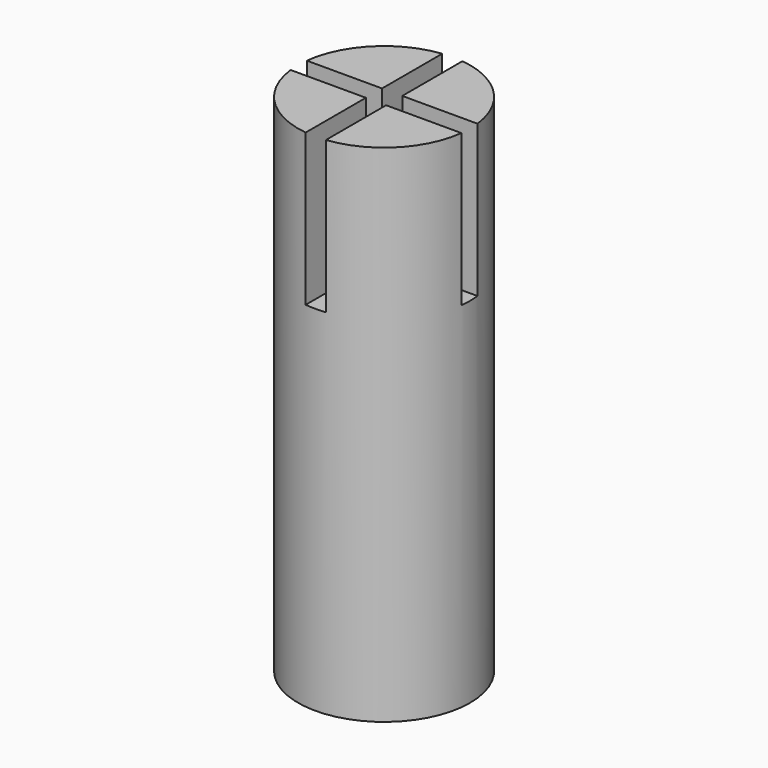
from build123d import *

# Parameters (mm, degrees)
F0_R     = 10.795
F1_DEPTH = 63.5
F2_W     = 2.54
F2_H     = 2.54
F3_DEPTH = 19.05


with BuildPart() as f1:
    # F0 (on Top) → F1 (new body)
    with BuildSketch(Plane.XY):
        Circle(F0_R)
    extrude(amount=F1_DEPTH)

    # F2 (on face) → F3 (cut)
    with BuildSketch(Plane.XY.offset(63.5)):
        with BuildLine():
            Line((-1.27, -1.27), (-1.27, 1.27))
            Line((-1.27, 1.27), (-10.7200338152, 1.27))
            ThreePointArc((-10.7200338152, 1.27), (-10.795, 0), (-10.7200338152, -1.27))
            Line((-10.7200338152, -1.27), (-1.27, -1.27))
        make_face()
        with BuildLine():
            Line((1.27, -1.27), (-1.27, -1.27))
            Line((-1.27, -1.27), (-1.27, -10.7200338152))
            ThreePointArc((-1.27, -10.7200338152), (0, -10.795), (1.27, -10.7200338152))
            Line((1.27, -10.7200338152), (1.27, -1.27))
        make_face()
        with BuildLine():
            ThreePointArc((1.27, 10.7200338152), (0, 10.795), (-1.27, 10.7200338152))
            Line((-1.27, 10.7200338152), (-1.27, 1.27))
            Line((-1.27, 1.27), (1.27, 1.27))
            Line((1.27, 1.27), (1.27, 10.7200338152))
        make_face()
        with BuildLine():
            Line((10.7200338152, 1.27), (1.27, 1.27))
            Line((1.27, 1.27), (1.27, -1.27))
            Line((1.27, -1.27), (10.7200338152, -1.27))
            ThreePointArc((10.7200338152, -1.27), (10.7762421566, -0.6361053232), (10.795, 0))
            ThreePointArc((10.795, 0), (10.7762421566, 0.6361053232), (10.7200338152, 1.27))
        make_face()
        Rectangle(F2_W, F2_H)
    extrude(amount=-F3_DEPTH, mode=Mode.SUBTRACT)


solid = f1.part
